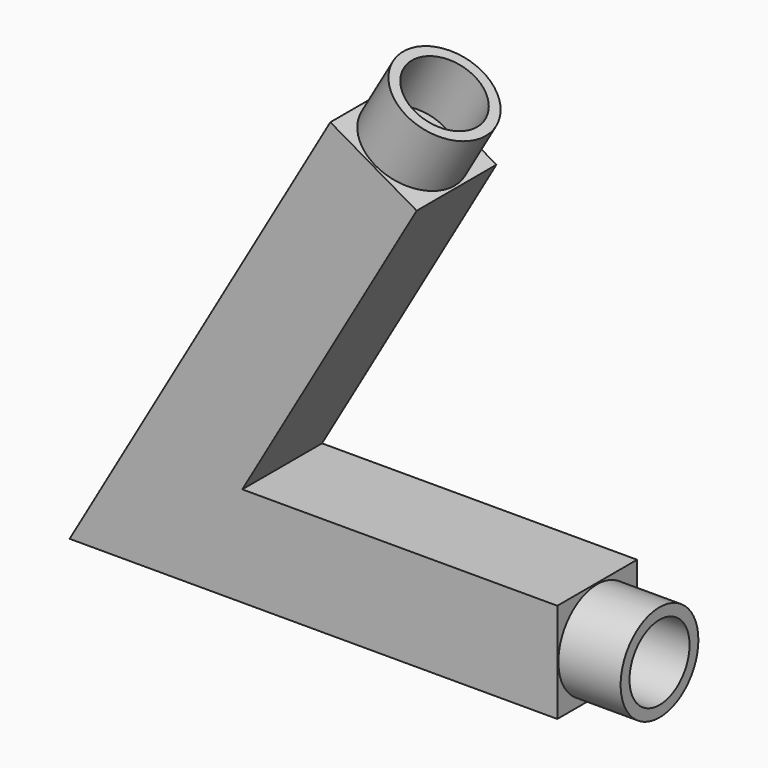
from build123d import *

# Parameters (mm, degrees)
F1_DEPTH = 40
F2_R     = 19.0977324209
F2_R_2   = 15.0689951662
F3_DEPTH = 25
F4_R     = 19.4897068619
F4_R_2   = 15.068995
F5_DEPTH = 25


with BuildPart() as f1:
    # F0 (on Front) → F1 (new body)
    with BuildSketch(Plane.XZ):
        Polygon((61.0357465344, -32.2937653869), (-65.3808493135, -32.2937653869), (4.5902623163, 88.899755018), (-30.0507538351, 108.899755018), (-134.6628816163, -72.2937653869), (61.0357465344, -72.2937653869), align=None)
    extrude(amount=F1_DEPTH)

    # F2 (on face) → F3 (join)
    with BuildSketch(Plane(origin=(39.642288697, 0, 68.6624581515), x_dir=(0.8660254038, 0, -0.5), z_dir=(0.5, 0, 0.8660254038))):
        with Locations((-60.4745937331, -20)):
            Circle(F2_R)
        with Locations((-60.4745937331, -20)):
            Circle(F2_R_2, mode=Mode.SUBTRACT)
    extrude(amount=F3_DEPTH)

    # F4 (on face) → F5 (join)
    with BuildSketch(Plane.YZ.offset(61.0357465344)):
        with Locations((-20, -52.2937653869)):
            Circle(F4_R)
        with Locations((-20, -52.2937653869)):
            Circle(F4_R_2, mode=Mode.SUBTRACT)
    extrude(amount=F5_DEPTH)


solid = f1.part
